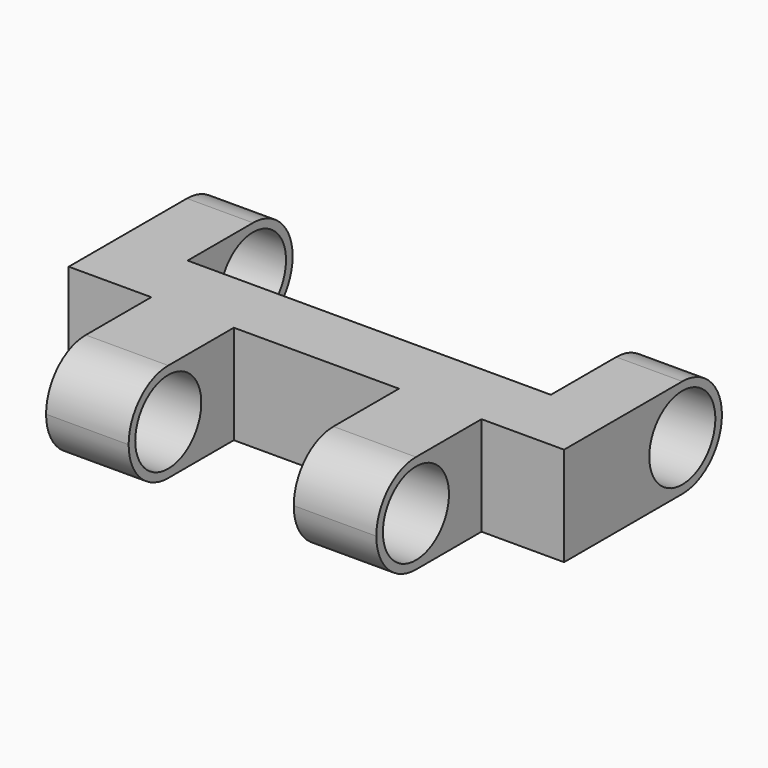
from build123d import *

# Parameters (mm, degrees)
F1_DEPTH = 6
F2_R     = 2.5
F3_DEPTH = 50


with BuildPart() as f1:
    # F0 (on Top) → F1 (new body)
    with BuildSketch(Plane.XY):
        Polygon((5, -10), (10, -10), (10, -2), (15, -2), (15, 10), (11, 10), (11, 2), (-11, 2), (-11, 10), (-15, 10), (-15, -2), (-10, -2), (-10, -10), (-5, -10), (-5, -2), (5, -2), align=None)
    extrude(amount=F1_DEPTH)

    # F2 (on face) → F3 (cut)
    with BuildSketch(Plane(origin=(-15, 0, 0), x_dir=(0, -1, 0), z_dir=(-1, 0, 0))):
        with Locations((-6.949849, 3)):
            Circle(F2_R)
        with BuildLine():
            ThreePointArc((-6.949849, 0), (-9.949849, 3), (-6.949849, 6))
            Line((-6.949849, 6), (-10, 6))
            Line((-10, 6), (-10, 0))
            Line((-10, 0), (-6.949849, 0))
        make_face()
        with Locations((6.964043, 3)):
            Circle(F2_R)
        with BuildLine():
            Line((10, 6), (6.964043, 6))
            ThreePointArc((6.964043, 6), (9.085363, 5.12132), (9.964043, 3))
            ThreePointArc((9.964043, 3), (9.085363, 0.87868), (6.964043, 0))
            Line((6.964043, 0), (10, 0))
            Line((10, 0), (10, 6))
        make_face()
    extrude(amount=-F3_DEPTH, mode=Mode.SUBTRACT)


solid = f1.part
